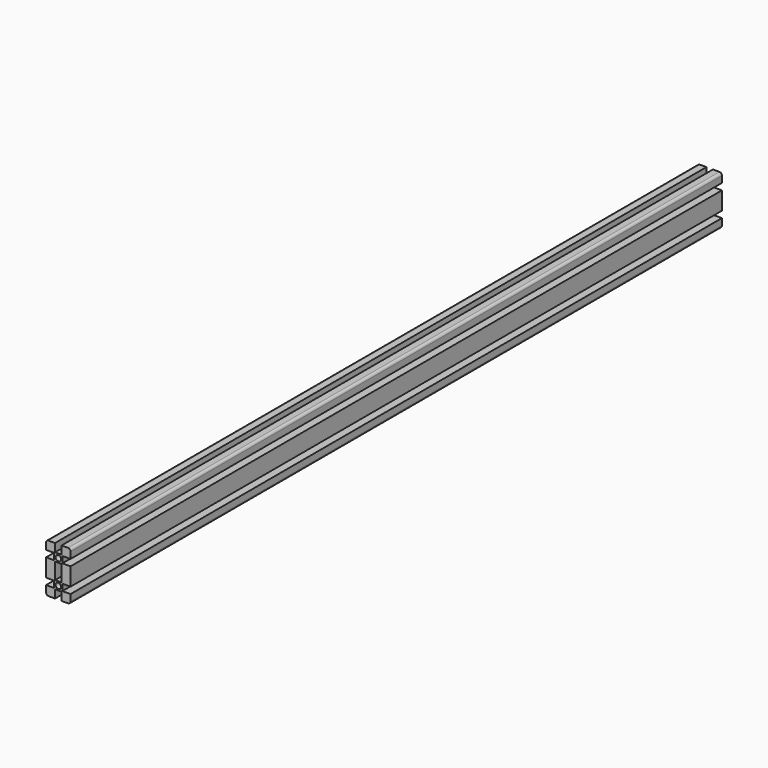
from build123d import *

# Parameters (mm, degrees)
F1_DEPTH = 500
F2_R     = 3.4
F2_W     = 8
F2_H     = 20
F3_DEPTH = 1000
F4_R     = 3


with BuildPart() as f1:
    # F0 (on Front) → F1 (new body, symmetric)
    with BuildSketch(Plane.XZ):
        Polygon((15, 19), (15, 30), (4, 30), (4, 20), (-4, 20), (-4, 30), (-15, 30), (-15, 19), (-5, 19), (-5, 11), (-15, 11), (-15, -11), (-5, -11), (-5, -19), (-15, -19), (-15, -30), (-4, -30), (-4, -20), (4, -20), (4, -30), (15, -30), (15, -19), (5, -19), (5, -11), (15, -11), (15, 11), (5, 11), (5, 19), align=None)
    extrude(amount=F1_DEPTH, both=True)

    # F2 (on face) → F3 (cut)
    with BuildSketch(Plane.XZ.offset(500)):
        with Locations((0, -15)):
            Circle(F2_R)
        Rectangle(F2_W, F2_H)
        with Locations((0, 15)):
            Circle(F2_R)
    extrude(amount=-F3_DEPTH, mode=Mode.SUBTRACT)

    # F4
    f4_edges = [f1.edges().sort_by_distance(p)[0] for p in [
        (-15, 0, -30),
        (15, 0, -30),
        (15, 0, 30),
        (-15, 0, 30),
    ]]
    fillet(f4_edges, radius=F4_R)


solid = f1.part
